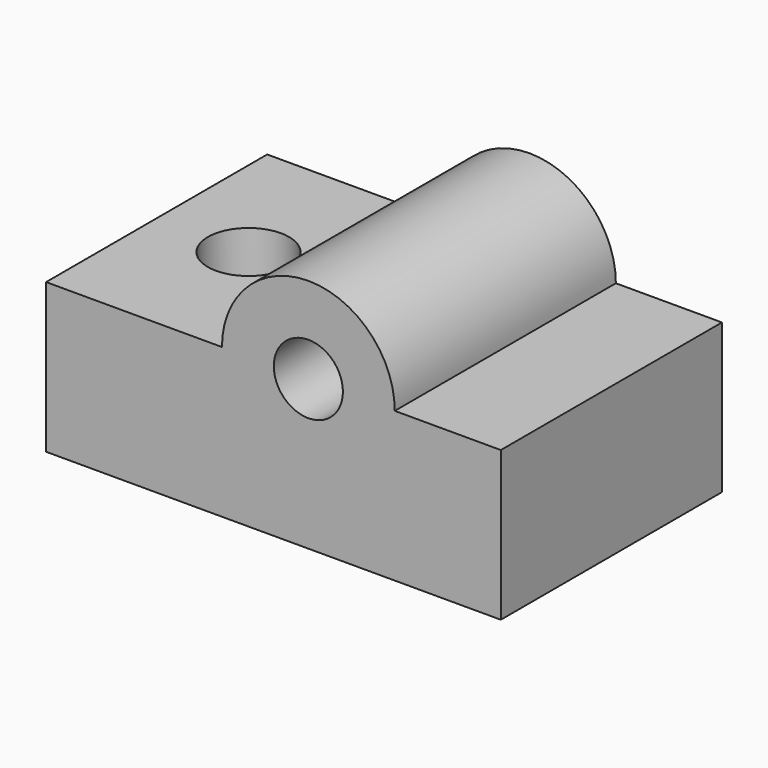
from build123d import *

# Parameters (mm, degrees)
F1_DEPTH = 60
F2_R     = 7.5
F3_DEPTH = 60
F5_R     = 8.827636
F6_DEPTH = 12


with BuildPart() as f1:
    # F0 (on Front) → F1 (new body)
    with BuildSketch(Plane.XZ):
        with BuildLine():
            Line((-98.720774, 0), (0, 0))
            Line((0, 0), (0, 32.434803))
            Line((0, 32.434803), (-22.520235, 32.434803))
            Line((-22.520235, 32.434803), (-23.024651, 32.434803))
            ThreePointArc((-23.024651, 32.434803), (-41.782826, 51.192978), (-60.541002, 32.434803))
            Line((-60.541002, 32.434803), (-61.611962, 32.434803))
            Line((-61.611962, 32.434803), (-98.720774, 32.434803))
            Line((-98.720774, 32.434803), (-98.720774, 0))
        make_face()
    extrude(amount=F1_DEPTH)

    # F2 (on face) → F3 (cut, through all)
    with BuildSketch(Plane.XZ.offset(60)):
        with Locations((-41.782826, 32.434803)):
            Circle(F2_R)
    extrude(amount=-F3_DEPTH, mode=Mode.SUBTRACT)

    # F5 (on face) → F6 (cut)
    with BuildSketch(Plane.XY.offset(32.434803)):
        with Locations((-78.823261, -29.944986)):
            Circle(F5_R)
    extrude(amount=-F6_DEPTH, mode=Mode.SUBTRACT)


solid = f1.part
